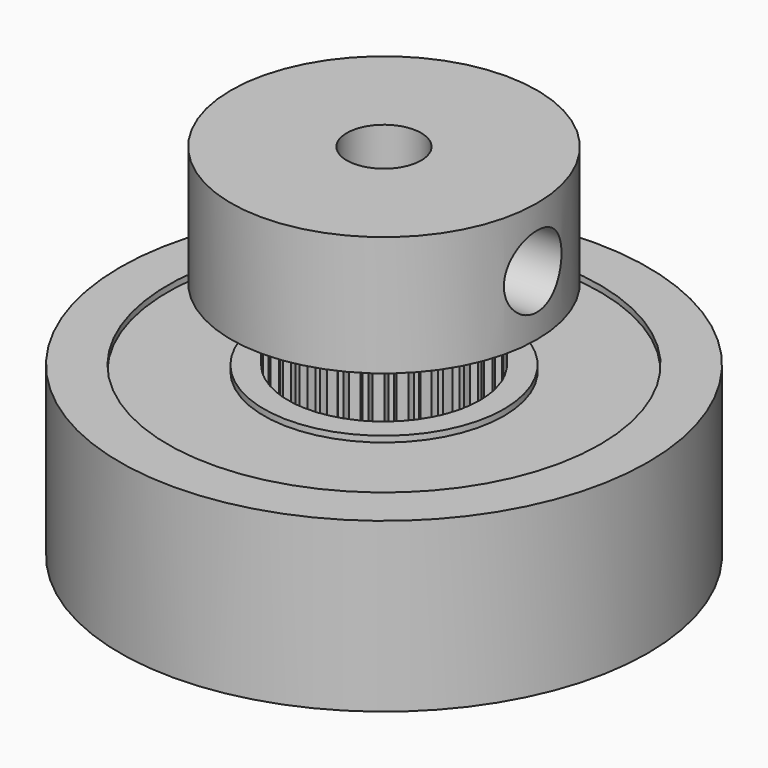
from build123d import *

# Parameters (mm, degrees)
CYLINDER004_R           = 1.55
CYLINDER004_DEPTH       = 4
CYLINDER002_R           = 3
CYLINDER002_DEPTH       = 0.5
CYLINDER003_R           = 4
CYLINDER003_DEPTH       = 0.25
CYLINDER001_R           = 5.75
CYLINDER001_DEPTH       = 1
CYLINDER005_R           = 3
CYLINDER005_DEPTH       = 0.5
CYLINDER006_R           = 4
CYLINDER006_DEPTH       = 0.25
CYLINDER_R              = 5
CYLINDER_DEPTH          = 4
CYLINDER009_R           = 1.55
CYLINDER009_DEPTH       = 15
CYLINDER010_R           = 1.5
CYLINDER010_DEPTH       = 7
CYLINDER010_PITCH_ANGLE = 90
CYLINDER008_R           = 6.375
CYLINDER008_DEPTH       = 5
PAD_DEPTH               = 9.5
CYLINDER007_R           = 3.75
CYLINDER007_DEPTH       = 15
CYLINDER013_R           = 5
CYLINDER013_DEPTH       = 0.25
CYLINDER014_R           = 9
CYLINDER014_DEPTH       = 0.25
CYLINDER015_R           = 5
CYLINDER015_DEPTH       = 0.25
CYLINDER016_R           = 9
CYLINDER016_DEPTH       = 0.25
CYLINDER011_R           = 4
CYLINDER011_DEPTH       = 7
CYLINDER012_R           = 11
CYLINDER012_DEPTH       = 7
CYLINDER018_R           = 1.6
CYLINDER018_DEPTH       = 0.6
CYLINDER017_R           = 3.4
CYLINDER017_DEPTH       = 0.6


with BuildPart() as m3:
    # Cylinder004 → Cylinder004 (new body)
    with BuildSketch(Plane.XY):
        Circle(CYLINDER004_R)
    extrude(amount=CYLINDER004_DEPTH)


with BuildPart() as cylinder002:
    # Cylinder002 → Cylinder002 (new body)
    with BuildSketch(Plane.XY):
        Circle(CYLINDER002_R)
    extrude(amount=CYLINDER002_DEPTH)


with BuildPart() as groove:
    # Cylinder003 → Cylinder003 (new body)
    with BuildSketch(Plane.XY):
        Circle(CYLINDER003_R)
    extrude(amount=CYLINDER003_DEPTH)

    # Cut: cut Cylinder002
    add(cylinder002.part, mode=Mode.SUBTRACT)


with BuildPart() as obj1:
    # Cylinder001 → Cylinder001 (new body)
    with BuildSketch(Plane.XY):
        Circle(CYLINDER001_R)
    extrude(amount=CYLINDER001_DEPTH)


with BuildPart() as cylinder005:
    # Cylinder005 → Cylinder005 (new body)
    with BuildSketch(Plane.XY):
        Circle(CYLINDER005_R)
    extrude(amount=CYLINDER005_DEPTH)


with BuildPart() as groove001:
    # Cylinder006 → Cylinder006 (new body)
    with BuildSketch(Plane.XY):
        Circle(CYLINDER006_R)
    extrude(amount=CYLINDER006_DEPTH)

    # Cut001: cut Cylinder005
    add(cylinder005.part, mode=Mode.SUBTRACT)


with BuildPart() as groove001_1:
    # Cut001 placement: moved
    add(groove001.part.moved(Location((0, 0, 3.75))))


with BuildPart() as f623zz:
    # Cylinder → Cylinder (new body)
    with BuildSketch(Plane.XY):
        Circle(CYLINDER_R)
    extrude(amount=CYLINDER_DEPTH)

    # Cut002: cut Groove001
    add(groove001_1.part, mode=Mode.SUBTRACT)

    # Fusion: union obj1
    add(obj1.part)

    # Cut003: cut Groove
    add(groove.part, mode=Mode.SUBTRACT)

    # Cut004: cut M3
    add(m3.part, mode=Mode.SUBTRACT)


with BuildPart() as cylinder009:
    # Cylinder009 → Cylinder009 (new body)
    with BuildSketch(Plane.XY):
        Circle(CYLINDER009_R)
    extrude(amount=CYLINDER009_DEPTH)


with BuildPart() as cylinder010:
    # Cylinder010 → Cylinder010 (new body)
    with BuildSketch(Plane.XY):
        Circle(CYLINDER010_R)
    extrude(amount=CYLINDER010_DEPTH)


with BuildPart() as cylinder010_1:
    # Cylinder010 pitch: moved
    add(cylinder010.part.rotate(Axis((0, 0, 0), (0, 1, 0)), CYLINDER010_PITCH_ANGLE))


with BuildPart() as cylinder010_2:
    # Cylinder010 placement: moved
    add(cylinder010_1.part.moved(Location((0, 0, 12.5))))


with BuildPart() as conetop:
    # Cone → Cone (revolve)
    with BuildSketch(Plane.XZ):
        Polygon((0, 0), (2.5, 0), (1.55, 5), (0, 5), align=None)
    revolve(axis=Axis((0, 0, 0), (0, 0, 1)))


with BuildPart() as cylinder007:
    # Cylinder008 → Cylinder008 (new body)
    with BuildSketch(Plane.XY.offset(10)):
        Circle(CYLINDER008_R)
    extrude(amount=CYLINDER008_DEPTH)


with BuildPart() as pad:
    # InvoluteGear → Pad (new body)
    with BuildSketch(Plane.XY):
        with BuildLine():
            Line((3.492085, -0.235247), (3.521085, -0.23701))
            add(Edge.make_bspline(
                [(3.521085, -0.23701), (3.534891, -0.237191), (3.576508, -0.236243), (3.645773, -0.221926)],
                knots=[0, 0, 0, 0, 1, 1, 1, 1], degree=3))
            add(Edge.make_bspline(
                [(3.645773, -0.221926), (3.728823, -0.20457), (3.849014, -0.168148), (3.999193, -0.092079)],
                knots=[0, 0, 0, 0, 1, 1, 1, 1], degree=3))
            ThreePointArc((3.999193, -0.092079), (4.000253, 0), (3.999193, 0.092079))
            add(Edge.make_bspline(
                [(3.999193, 0.092079), (3.849014, 0.168148), (3.728823, 0.20457), (3.645773, 0.221926)],
                knots=[0, 0, 0, 0, 1, 1, 1, 1], degree=3))
            add(Edge.make_bspline(
                [(3.645773, 0.221926), (3.576508, 0.236243), (3.534891, 0.237191), (3.521085, 0.23701)],
                knots=[0, 0, 0, 0, 1, 1, 1, 1], degree=3))
            Line((3.521085, 0.23701), (3.492085, 0.235247))
            ThreePointArc((3.492085, 0.235247), (3.442975, 0.267159), (3.422387, 0.321988))
            ThreePointArc((3.422387, 0.321988), (3.418669, 0.359317), (3.414544, 0.396603))
            ThreePointArc((3.414544, 0.396603), (3.423283, 0.454514), (3.464685, 0.495939))
            Line((3.464685, 0.495939), (3.493418, 0.500244))
            add(Edge.make_bspline(
                [(3.493418, 0.500244), (3.50696, 0.502938), (3.547471, 0.512517), (3.612245, 0.540922)],
                knots=[0, 0, 0, 0, 1, 1, 1, 1], degree=3))
            add(Edge.make_bspline(
                [(3.612245, 0.540922), (3.689872, 0.575167), (3.799864, 0.635782), (3.930945, 0.741412)],
                knots=[0, 0, 0, 0, 1, 1, 1, 1], degree=3))
            ThreePointArc((3.930945, 0.741412), (3.912838, 0.831699), (3.892656, 0.921546))
            add(Edge.make_bspline(
                [(3.892656, 0.921546), (3.729944, 0.964728), (3.604807, 0.975365), (3.519963, 0.975076)],
                knots=[0, 0, 0, 0, 1, 1, 1, 1], degree=3))
            add(Edge.make_bspline(
                [(3.519963, 0.975076), (3.449235, 0.974679), (3.40833, 0.966953), (3.394864, 0.963905)],
                knots=[0, 0, 0, 0, 1, 1, 1, 1], degree=3))
            Line((3.394864, 0.963905), (3.366864, 0.956152))
            ThreePointArc((3.366864, 0.956152), (3.312193, 0.977156), (3.280654, 1.026506))
            ThreePointArc((3.280654, 1.026506), (3.269257, 1.062246), (3.25747, 1.09786))
            ThreePointArc((3.25747, 1.09786), (3.253978, 1.156322), (3.285862, 1.20545))
            Line((3.285862, 1.20545), (3.313071, 1.215635))
            add(Edge.make_bspline(
                [(3.313071, 1.215635), (3.325758, 1.221085), (3.363392, 1.238878), (3.420845, 1.280129)],
                knots=[0, 0, 0, 0, 1, 1, 1, 1], degree=3))
            add(Edge.make_bspline(
                [(3.420845, 1.280129), (3.489656, 1.329765), (3.584641, 1.411924), (3.690896, 1.5425)],
                knots=[0, 0, 0, 0, 1, 1, 1, 1], degree=3))
            ThreePointArc((3.690896, 1.5425), (3.654413, 1.627049), (3.615992, 1.710737))
            add(Edge.make_bspline(
                [(3.615992, 1.710737), (3.447858, 1.719146), (3.323244, 1.703533), (3.240313, 1.685609)],
                knots=[0, 0, 0, 0, 1, 1, 1, 1], degree=3))
            add(Edge.make_bspline(
                [(3.240313, 1.685609), (3.171214, 1.670516), (3.13281, 1.654454), (3.12027, 1.648673)],
                knots=[0, 0, 0, 0, 1, 1, 1, 1], degree=3))
            Line((3.12027, 1.648673), (3.094495, 1.635268))
            ThreePointArc((3.094495, 1.635268), (3.036651, 1.644446), (2.995541, 1.686161))
            ThreePointArc((2.995541, 1.686161), (2.976962, 1.71875), (2.958029, 1.751135))
            ThreePointArc((2.958029, 1.751135), (2.942458, 1.807594), (2.963431, 1.862277))
            Line((2.963431, 1.862277), (2.987928, 1.877897))
            add(Edge.make_bspline(
                [(2.987928, 1.877897), (2.999204, 1.885866), (3.032316, 1.911094), (3.079937, 1.963389)],
                knots=[0, 0, 0, 0, 1, 1, 1, 1], degree=3))
            add(Edge.make_bspline(
                [(3.079937, 1.963389), (3.136924, 2.026247), (3.212753, 2.126359), (3.289538, 2.276173)],
                knots=[0, 0, 0, 0, 1, 1, 1, 1], degree=3))
            ThreePointArc((3.289538, 2.276173), (3.236272, 2.35129), (3.181292, 2.42516))
            add(Edge.make_bspline(
                [(3.181292, 2.42516), (3.015083, 2.398428), (2.896438, 2.357248), (2.819047, 2.322474)],
                knots=[0, 0, 0, 0, 1, 1, 1, 1], degree=3))
            add(Edge.make_bspline(
                [(2.819047, 2.322474), (2.754595, 2.293344), (2.72037, 2.269648), (2.709307, 2.261386)],
                knots=[0, 0, 0, 0, 1, 1, 1, 1], degree=3))
            Line((2.709307, 2.261386), (2.686881, 2.242915))
            ThreePointArc((2.686881, 2.242915), (2.628394, 2.239866), (2.579509, 2.272122))
            ThreePointArc((2.579509, 2.272122), (2.55456, 2.300136), (2.529307, 2.327877))
            ThreePointArc((2.529307, 2.327877), (2.502338, 2.379865), (2.511484, 2.437714))
            Line((2.511484, 2.437714), (2.532198, 2.458086))
            add(Edge.make_bspline(
                [(2.532198, 2.458086), (2.541571, 2.468224), (2.568714, 2.499786), (2.604421, 2.560839)],
                knots=[0, 0, 0, 0, 1, 1, 1, 1], degree=3))
            add(Edge.make_bspline(
                [(2.604421, 2.560839), (2.647095, 2.634172), (2.700451, 2.747862), (2.74441, 2.910366)],
                knots=[0, 0, 0, 0, 1, 1, 1, 1], degree=3))
            ThreePointArc((2.74441, 2.910366), (2.676692, 2.972767), (2.607554, 3.033592))
            add(Edge.make_bspline(
                [(2.607554, 3.033592), (2.450535, 2.972888), (2.343045, 2.90794), (2.274574, 2.857835)],
                knots=[0, 0, 0, 0, 1, 1, 1, 1], degree=3))
            add(Edge.make_bspline(
                [(2.274574, 2.857835), (2.217588, 2.815941), (2.189037, 2.785647), (2.179933, 2.775266)],
                knots=[0, 0, 0, 0, 1, 1, 1, 1], degree=3))
            Line((2.179933, 2.775266), (2.161838, 2.752536))
            ThreePointArc((2.161838, 2.752536), (2.105262, 2.737393), (2.05074, 2.758781))
            ThreePointArc((2.05074, 2.758781), (2.020512, 2.780996), (1.990043, 2.80288))
            ThreePointArc((1.990043, 2.80288), (1.952854, 2.848125), (1.949773, 2.906611))
            Line((1.949773, 2.906611), (1.965799, 2.930844))
            add(Edge.make_bspline(
                [(1.965799, 2.930844), (1.972859, 2.94271), (1.992847, 2.979225), (2.01508, 3.046368)],
                knots=[0, 0, 0, 0, 1, 1, 1, 1], degree=3))
            add(Edge.make_bspline(
                [(2.01508, 3.046368), (2.041574, 3.126971), (2.070127, 3.24927), (2.079339, 3.417363)],
                knots=[0, 0, 0, 0, 1, 1, 1, 1], degree=3))
            ThreePointArc((2.079339, 3.417363), (2.000126, 3.46432), (1.919853, 3.509442))
            add(Edge.make_bspline(
                [(1.919853, 3.509442), (1.778887, 3.417418), (1.687249, 3.33154), (1.630692, 3.268295)],
                knots=[0, 0, 0, 0, 1, 1, 1, 1], degree=3))
            add(Edge.make_bspline(
                [(1.630692, 3.268295), (1.583661, 3.215469), (1.562032, 3.179901), (1.555286, 3.167854)],
                knots=[0, 0, 0, 0, 1, 1, 1, 1], degree=3))
            Line((1.555286, 3.167854), (1.542312, 3.141858))
            ThreePointArc((1.542312, 3.141858), (1.490121, 3.115283), (1.432344, 3.124868))
            ThreePointArc((1.432344, 3.124868), (1.398157, 3.140313), (1.363804, 3.155383))
            ThreePointArc((1.363804, 3.155383), (1.318021, 3.191907), (1.302847, 3.248475))
            Line((1.302847, 3.248475), (1.313485, 3.275511))
            add(Edge.make_bspline(
                [(1.313485, 3.275511), (1.317923, 3.288585), (1.329883, 3.328458), (1.33767, 3.398757)],
                knots=[0, 0, 0, 0, 1, 1, 1, 1], degree=3))
            add(Edge.make_bspline(
                [(1.33767, 3.398757), (1.346827, 3.483106), (1.349329, 3.60867), (1.323391, 3.775004)],
                knots=[0, 0, 0, 0, 1, 1, 1, 1], degree=3))
            ThreePointArc((1.323391, 3.775004), (1.236146, 3.804466), (1.148246, 3.831912))
            add(Edge.make_bspline(
                [(1.148246, 3.831912), (1.029493, 3.712591), (0.957712, 3.609537), (0.915541, 3.535915)],
                knots=[0, 0, 0, 0, 1, 1, 1, 1], degree=3))
            add(Edge.make_bspline(
                [(0.915541, 3.535915), (0.880521, 3.474465), (0.86676, 3.435177), (0.862666, 3.421991)],
                knots=[0, 0, 0, 0, 1, 1, 1, 1], degree=3))
            Line((0.862666, 3.421991), (0.85538, 3.393866))
            ThreePointArc((0.85538, 3.393866), (0.809855, 3.357021), (0.751347, 3.354383))
            ThreePointArc((0.751347, 3.354383), (0.714696, 3.362382), (0.677961, 3.369982))
            ThreePointArc((0.677961, 3.369982), (0.625584, 3.396189), (0.598981, 3.448365))
            Line((0.598981, 3.448365), (0.603765, 3.477022))
            add(Edge.make_bspline(
                [(0.603765, 3.477022), (0.605388, 3.490733), (0.608796, 3.532222), (0.601798, 3.602603)],
                knots=[0, 0, 0, 0, 1, 1, 1, 1], degree=3))
            add(Edge.make_bspline(
                [(0.601798, 3.602603), (0.593217, 3.687013), (0.569558, 3.810353), (0.509604, 3.96766)],
                knots=[0, 0, 0, 0, 1, 1, 1, 1], degree=3))
            ThreePointArc((0.509604, 3.96766), (0.41814, 3.978339), (0.326455, 3.98691))
            add(Edge.make_bspline(
                [(0.326455, 3.98691), (0.235105, 3.845505), (0.186319, 3.72978), (0.160376, 3.648998)],
                knots=[0, 0, 0, 0, 1, 1, 1, 1], degree=3))
            add(Edge.make_bspline(
                [(0.160376, 3.648998), (0.138898, 3.58161), (0.133606, 3.54032), (0.132342, 3.52657)],
                knots=[0, 0, 0, 0, 1, 1, 1, 1], degree=3))
            Line((0.132342, 3.52657), (0.131064, 3.497545))
            ThreePointArc((0.131064, 3.497545), (0.094194, 3.45204), (0.037513, 3.437295))
            ThreePointArc((0.037513, 3.437295), (0, 3.4375), (-0.037513, 3.437295))
            ThreePointArc((-0.037513, 3.437295), (-0.094194, 3.45204), (-0.131064, 3.497545))
            Line((-0.131064, 3.497545), (-0.132342, 3.52657))
            add(Edge.make_bspline(
                [(-0.132342, 3.52657), (-0.133606, 3.54032), (-0.138898, 3.58161), (-0.160376, 3.648998)],
                knots=[0, 0, 0, 0, 1, 1, 1, 1], degree=3))
            add(Edge.make_bspline(
                [(-0.160376, 3.648998), (-0.186319, 3.72978), (-0.235105, 3.845505), (-0.326455, 3.98691)],
                knots=[0, 0, 0, 0, 1, 1, 1, 1], degree=3))
            ThreePointArc((-0.326455, 3.98691), (-0.41814, 3.978339), (-0.509604, 3.96766))
            add(Edge.make_bspline(
                [(-0.509604, 3.96766), (-0.569558, 3.810353), (-0.593217, 3.687013), (-0.601798, 3.602603)],
                knots=[0, 0, 0, 0, 1, 1, 1, 1], degree=3))
            add(Edge.make_bspline(
                [(-0.601798, 3.602603), (-0.608796, 3.532222), (-0.605388, 3.490733), (-0.603765, 3.477022)],
                knots=[0, 0, 0, 0, 1, 1, 1, 1], degree=3))
            Line((-0.603765, 3.477022), (-0.598981, 3.448365))
            ThreePointArc((-0.598981, 3.448365), (-0.625584, 3.396189), (-0.677961, 3.369982))
            ThreePointArc((-0.677961, 3.369982), (-0.714696, 3.362382), (-0.751347, 3.354383))
            ThreePointArc((-0.751347, 3.354383), (-0.809855, 3.357021), (-0.85538, 3.393866))
            Line((-0.85538, 3.393866), (-0.862666, 3.421991))
            add(Edge.make_bspline(
                [(-0.862666, 3.421991), (-0.86676, 3.435177), (-0.880521, 3.474465), (-0.915541, 3.535915)],
                knots=[0, 0, 0, 0, 1, 1, 1, 1], degree=3))
            add(Edge.make_bspline(
                [(-0.915541, 3.535915), (-0.957712, 3.609537), (-1.029493, 3.712591), (-1.148246, 3.831912)],
                knots=[0, 0, 0, 0, 1, 1, 1, 1], degree=3))
            ThreePointArc((-1.148246, 3.831912), (-1.236146, 3.804466), (-1.323391, 3.775004))
            add(Edge.make_bspline(
                [(-1.323391, 3.775004), (-1.349329, 3.60867), (-1.346827, 3.483106), (-1.33767, 3.398757)],
                knots=[0, 0, 0, 0, 1, 1, 1, 1], degree=3))
            add(Edge.make_bspline(
                [(-1.33767, 3.398757), (-1.329883, 3.328458), (-1.317923, 3.288585), (-1.313485, 3.275511)],
                knots=[0, 0, 0, 0, 1, 1, 1, 1], degree=3))
            Line((-1.313485, 3.275511), (-1.302847, 3.248475))
            ThreePointArc((-1.302847, 3.248475), (-1.318021, 3.191907), (-1.363804, 3.155383))
            ThreePointArc((-1.363804, 3.155383), (-1.398157, 3.140313), (-1.432344, 3.124868))
            ThreePointArc((-1.432344, 3.124868), (-1.490121, 3.115283), (-1.542312, 3.141858))
            Line((-1.542312, 3.141858), (-1.555286, 3.167854))
            add(Edge.make_bspline(
                [(-1.555286, 3.167854), (-1.562032, 3.179901), (-1.583661, 3.215469), (-1.630692, 3.268295)],
                knots=[0, 0, 0, 0, 1, 1, 1, 1], degree=3))
            add(Edge.make_bspline(
                [(-1.630692, 3.268295), (-1.687249, 3.33154), (-1.778887, 3.417418), (-1.919853, 3.509442)],
                knots=[0, 0, 0, 0, 1, 1, 1, 1], degree=3))
            ThreePointArc((-1.919853, 3.509442), (-2.000126, 3.46432), (-2.079339, 3.417363))
            add(Edge.make_bspline(
                [(-2.079339, 3.417363), (-2.070127, 3.24927), (-2.041574, 3.126971), (-2.01508, 3.046368)],
                knots=[0, 0, 0, 0, 1, 1, 1, 1], degree=3))
            add(Edge.make_bspline(
                [(-2.01508, 3.046368), (-1.992847, 2.979225), (-1.972859, 2.94271), (-1.965799, 2.930844)],
                knots=[0, 0, 0, 0, 1, 1, 1, 1], degree=3))
            Line((-1.965799, 2.930844), (-1.949773, 2.906611))
            ThreePointArc((-1.949773, 2.906611), (-1.952854, 2.848125), (-1.990043, 2.80288))
            ThreePointArc((-1.990043, 2.80288), (-2.020512, 2.780996), (-2.05074, 2.758781))
            ThreePointArc((-2.05074, 2.758781), (-2.105262, 2.737393), (-2.161838, 2.752536))
            Line((-2.161838, 2.752536), (-2.179933, 2.775266))
            add(Edge.make_bspline(
                [(-2.179933, 2.775266), (-2.189037, 2.785647), (-2.217588, 2.815941), (-2.274574, 2.857835)],
                knots=[0, 0, 0, 0, 1, 1, 1, 1], degree=3))
            add(Edge.make_bspline(
                [(-2.274574, 2.857835), (-2.343045, 2.90794), (-2.450535, 2.972888), (-2.607554, 3.033592)],
                knots=[0, 0, 0, 0, 1, 1, 1, 1], degree=3))
            ThreePointArc((-2.607554, 3.033592), (-2.676692, 2.972767), (-2.74441, 2.910366))
            add(Edge.make_bspline(
                [(-2.74441, 2.910366), (-2.700451, 2.747862), (-2.647095, 2.634172), (-2.604421, 2.560839)],
                knots=[0, 0, 0, 0, 1, 1, 1, 1], degree=3))
            add(Edge.make_bspline(
                [(-2.604421, 2.560839), (-2.568714, 2.499786), (-2.541571, 2.468224), (-2.532198, 2.458086)],
                knots=[0, 0, 0, 0, 1, 1, 1, 1], degree=3))
            Line((-2.532198, 2.458086), (-2.511484, 2.437714))
            ThreePointArc((-2.511484, 2.437714), (-2.502338, 2.379865), (-2.529307, 2.327877))
            ThreePointArc((-2.529307, 2.327877), (-2.55456, 2.300136), (-2.579509, 2.272122))
            ThreePointArc((-2.579509, 2.272122), (-2.628394, 2.239866), (-2.686881, 2.242915))
            Line((-2.686881, 2.242915), (-2.709307, 2.261386))
            add(Edge.make_bspline(
                [(-2.709307, 2.261386), (-2.72037, 2.269648), (-2.754595, 2.293344), (-2.819047, 2.322474)],
                knots=[0, 0, 0, 0, 1, 1, 1, 1], degree=3))
            add(Edge.make_bspline(
                [(-2.819047, 2.322474), (-2.896438, 2.357248), (-3.015083, 2.398428), (-3.181292, 2.42516)],
                knots=[0, 0, 0, 0, 1, 1, 1, 1], degree=3))
            ThreePointArc((-3.181292, 2.42516), (-3.236272, 2.35129), (-3.289538, 2.276173))
            add(Edge.make_bspline(
                [(-3.289538, 2.276173), (-3.212753, 2.126359), (-3.136924, 2.026247), (-3.079937, 1.963389)],
                knots=[0, 0, 0, 0, 1, 1, 1, 1], degree=3))
            add(Edge.make_bspline(
                [(-3.079937, 1.963389), (-3.032316, 1.911094), (-2.999204, 1.885866), (-2.987928, 1.877897)],
                knots=[0, 0, 0, 0, 1, 1, 1, 1], degree=3))
            Line((-2.987928, 1.877897), (-2.963431, 1.862277))
            ThreePointArc((-2.963431, 1.862277), (-2.942458, 1.807594), (-2.958029, 1.751135))
            ThreePointArc((-2.958029, 1.751135), (-2.976962, 1.71875), (-2.995541, 1.686161))
            ThreePointArc((-2.995541, 1.686161), (-3.036651, 1.644446), (-3.094495, 1.635268))
            Line((-3.094495, 1.635268), (-3.12027, 1.648673))
            add(Edge.make_bspline(
                [(-3.12027, 1.648673), (-3.13281, 1.654454), (-3.171214, 1.670516), (-3.240313, 1.685609)],
                knots=[0, 0, 0, 0, 1, 1, 1, 1], degree=3))
            add(Edge.make_bspline(
                [(-3.240313, 1.685609), (-3.323244, 1.703533), (-3.447858, 1.719146), (-3.615992, 1.710737)],
                knots=[0, 0, 0, 0, 1, 1, 1, 1], degree=3))
            ThreePointArc((-3.615992, 1.710737), (-3.654413, 1.627049), (-3.690896, 1.5425))
            add(Edge.make_bspline(
                [(-3.690896, 1.5425), (-3.584641, 1.411924), (-3.489656, 1.329765), (-3.420845, 1.280129)],
                knots=[0, 0, 0, 0, 1, 1, 1, 1], degree=3))
            add(Edge.make_bspline(
                [(-3.420845, 1.280129), (-3.363392, 1.238878), (-3.325758, 1.221085), (-3.313071, 1.215635)],
                knots=[0, 0, 0, 0, 1, 1, 1, 1], degree=3))
            Line((-3.313071, 1.215635), (-3.285862, 1.20545))
            ThreePointArc((-3.285862, 1.20545), (-3.253978, 1.156322), (-3.25747, 1.09786))
            ThreePointArc((-3.25747, 1.09786), (-3.269257, 1.062246), (-3.280654, 1.026506))
            ThreePointArc((-3.280654, 1.026506), (-3.312193, 0.977156), (-3.366864, 0.956152))
            Line((-3.366864, 0.956152), (-3.394864, 0.963905))
            add(Edge.make_bspline(
                [(-3.394864, 0.963905), (-3.40833, 0.966953), (-3.449235, 0.974679), (-3.519963, 0.975076)],
                knots=[0, 0, 0, 0, 1, 1, 1, 1], degree=3))
            add(Edge.make_bspline(
                [(-3.519963, 0.975076), (-3.604807, 0.975365), (-3.729944, 0.964728), (-3.892656, 0.921546)],
                knots=[0, 0, 0, 0, 1, 1, 1, 1], degree=3))
            ThreePointArc((-3.892656, 0.921546), (-3.912838, 0.831699), (-3.930945, 0.741412))
            add(Edge.make_bspline(
                [(-3.930945, 0.741412), (-3.799864, 0.635782), (-3.689872, 0.575167), (-3.612245, 0.540922)],
                knots=[0, 0, 0, 0, 1, 1, 1, 1], degree=3))
            add(Edge.make_bspline(
                [(-3.612245, 0.540922), (-3.547471, 0.512517), (-3.50696, 0.502938), (-3.493418, 0.500244)],
                knots=[0, 0, 0, 0, 1, 1, 1, 1], degree=3))
            Line((-3.493418, 0.500244), (-3.464685, 0.495939))
            ThreePointArc((-3.464685, 0.495939), (-3.423283, 0.454514), (-3.414544, 0.396603))
            ThreePointArc((-3.414544, 0.396603), (-3.418669, 0.359317), (-3.422387, 0.321988))
            ThreePointArc((-3.422387, 0.321988), (-3.442975, 0.267159), (-3.492085, 0.235247))
            Line((-3.492085, 0.235247), (-3.521085, 0.23701))
            add(Edge.make_bspline(
                [(-3.521085, 0.23701), (-3.534891, 0.237191), (-3.576508, 0.236243), (-3.645773, 0.221926)],
                knots=[0, 0, 0, 0, 1, 1, 1, 1], degree=3))
            add(Edge.make_bspline(
                [(-3.645773, 0.221926), (-3.728823, 0.20457), (-3.849014, 0.168148), (-3.999193, 0.092079)],
                knots=[0, 0, 0, 0, 1, 1, 1, 1], degree=3))
            ThreePointArc((-3.999193, 0.092079), (-4.000253, 0), (-3.999193, -0.092079))
            add(Edge.make_bspline(
                [(-3.999193, -0.092079), (-3.849014, -0.168148), (-3.728823, -0.20457), (-3.645773, -0.221926)],
                knots=[0, 0, 0, 0, 1, 1, 1, 1], degree=3))
            add(Edge.make_bspline(
                [(-3.645773, -0.221926), (-3.576508, -0.236243), (-3.534891, -0.237191), (-3.521085, -0.23701)],
                knots=[0, 0, 0, 0, 1, 1, 1, 1], degree=3))
            Line((-3.521085, -0.23701), (-3.492085, -0.235247))
            ThreePointArc((-3.492085, -0.235247), (-3.442975, -0.267159), (-3.422387, -0.321988))
            ThreePointArc((-3.422387, -0.321988), (-3.418669, -0.359317), (-3.414544, -0.396603))
            ThreePointArc((-3.414544, -0.396603), (-3.423283, -0.454514), (-3.464685, -0.495939))
            Line((-3.464685, -0.495939), (-3.493418, -0.500244))
            add(Edge.make_bspline(
                [(-3.493418, -0.500244), (-3.50696, -0.502938), (-3.547471, -0.512517), (-3.612245, -0.540922)],
                knots=[0, 0, 0, 0, 1, 1, 1, 1], degree=3))
            add(Edge.make_bspline(
                [(-3.612245, -0.540922), (-3.689872, -0.575167), (-3.799864, -0.635782), (-3.930945, -0.741412)],
                knots=[0, 0, 0, 0, 1, 1, 1, 1], degree=3))
            ThreePointArc((-3.930945, -0.741412), (-3.912838, -0.831699), (-3.892656, -0.921546))
            add(Edge.make_bspline(
                [(-3.892656, -0.921546), (-3.729944, -0.964728), (-3.604807, -0.975365), (-3.519963, -0.975076)],
                knots=[0, 0, 0, 0, 1, 1, 1, 1], degree=3))
            add(Edge.make_bspline(
                [(-3.519963, -0.975076), (-3.449235, -0.974679), (-3.40833, -0.966953), (-3.394864, -0.963905)],
                knots=[0, 0, 0, 0, 1, 1, 1, 1], degree=3))
            Line((-3.394864, -0.963905), (-3.366864, -0.956152))
            ThreePointArc((-3.366864, -0.956152), (-3.312193, -0.977156), (-3.280654, -1.026506))
            ThreePointArc((-3.280654, -1.026506), (-3.269257, -1.062246), (-3.25747, -1.09786))
            ThreePointArc((-3.25747, -1.09786), (-3.253978, -1.156322), (-3.285862, -1.20545))
            Line((-3.285862, -1.20545), (-3.313071, -1.215635))
            add(Edge.make_bspline(
                [(-3.313071, -1.215635), (-3.325758, -1.221085), (-3.363392, -1.238878), (-3.420845, -1.280129)],
                knots=[0, 0, 0, 0, 1, 1, 1, 1], degree=3))
            add(Edge.make_bspline(
                [(-3.420845, -1.280129), (-3.489656, -1.329765), (-3.584641, -1.411924), (-3.690896, -1.5425)],
                knots=[0, 0, 0, 0, 1, 1, 1, 1], degree=3))
            ThreePointArc((-3.690896, -1.5425), (-3.654413, -1.627049), (-3.615992, -1.710737))
            add(Edge.make_bspline(
                [(-3.615992, -1.710737), (-3.447858, -1.719146), (-3.323244, -1.703533), (-3.240313, -1.685609)],
                knots=[0, 0, 0, 0, 1, 1, 1, 1], degree=3))
            add(Edge.make_bspline(
                [(-3.240313, -1.685609), (-3.171214, -1.670516), (-3.13281, -1.654454), (-3.12027, -1.648673)],
                knots=[0, 0, 0, 0, 1, 1, 1, 1], degree=3))
            Line((-3.12027, -1.648673), (-3.094495, -1.635268))
            ThreePointArc((-3.094495, -1.635268), (-3.036651, -1.644446), (-2.995541, -1.686161))
            ThreePointArc((-2.995541, -1.686161), (-2.976962, -1.71875), (-2.958029, -1.751135))
            ThreePointArc((-2.958029, -1.751135), (-2.942458, -1.807594), (-2.963431, -1.862277))
            Line((-2.963431, -1.862277), (-2.987928, -1.877897))
            add(Edge.make_bspline(
                [(-2.987928, -1.877897), (-2.999204, -1.885866), (-3.032316, -1.911094), (-3.079937, -1.963389)],
                knots=[0, 0, 0, 0, 1, 1, 1, 1], degree=3))
            add(Edge.make_bspline(
                [(-3.079937, -1.963389), (-3.136924, -2.026247), (-3.212753, -2.126359), (-3.289538, -2.276173)],
                knots=[0, 0, 0, 0, 1, 1, 1, 1], degree=3))
            ThreePointArc((-3.289538, -2.276173), (-3.236272, -2.35129), (-3.181292, -2.42516))
            add(Edge.make_bspline(
                [(-3.181292, -2.42516), (-3.015083, -2.398428), (-2.896438, -2.357248), (-2.819047, -2.322474)],
                knots=[0, 0, 0, 0, 1, 1, 1, 1], degree=3))
            add(Edge.make_bspline(
                [(-2.819047, -2.322474), (-2.754595, -2.293344), (-2.72037, -2.269648), (-2.709307, -2.261386)],
                knots=[0, 0, 0, 0, 1, 1, 1, 1], degree=3))
            Line((-2.709307, -2.261386), (-2.686881, -2.242915))
            ThreePointArc((-2.686881, -2.242915), (-2.628394, -2.239866), (-2.579509, -2.272122))
            ThreePointArc((-2.579509, -2.272122), (-2.55456, -2.300136), (-2.529307, -2.327877))
            ThreePointArc((-2.529307, -2.327877), (-2.502338, -2.379865), (-2.511484, -2.437714))
            Line((-2.511484, -2.437714), (-2.532198, -2.458086))
            add(Edge.make_bspline(
                [(-2.532198, -2.458086), (-2.541571, -2.468224), (-2.568714, -2.499786), (-2.604421, -2.560839)],
                knots=[0, 0, 0, 0, 1, 1, 1, 1], degree=3))
            add(Edge.make_bspline(
                [(-2.604421, -2.560839), (-2.647095, -2.634172), (-2.700451, -2.747862), (-2.74441, -2.910366)],
                knots=[0, 0, 0, 0, 1, 1, 1, 1], degree=3))
            ThreePointArc((-2.74441, -2.910366), (-2.676692, -2.972767), (-2.607554, -3.033592))
            add(Edge.make_bspline(
                [(-2.607554, -3.033592), (-2.450535, -2.972888), (-2.343045, -2.90794), (-2.274574, -2.857835)],
                knots=[0, 0, 0, 0, 1, 1, 1, 1], degree=3))
            add(Edge.make_bspline(
                [(-2.274574, -2.857835), (-2.217588, -2.815941), (-2.189037, -2.785647), (-2.179933, -2.775266)],
                knots=[0, 0, 0, 0, 1, 1, 1, 1], degree=3))
            Line((-2.179933, -2.775266), (-2.161838, -2.752536))
            ThreePointArc((-2.161838, -2.752536), (-2.105262, -2.737393), (-2.05074, -2.758781))
            ThreePointArc((-2.05074, -2.758781), (-2.020512, -2.780996), (-1.990043, -2.80288))
            ThreePointArc((-1.990043, -2.80288), (-1.952854, -2.848125), (-1.949773, -2.906611))
            Line((-1.949773, -2.906611), (-1.965799, -2.930844))
            add(Edge.make_bspline(
                [(-1.965799, -2.930844), (-1.972859, -2.94271), (-1.992847, -2.979225), (-2.01508, -3.046368)],
                knots=[0, 0, 0, 0, 1, 1, 1, 1], degree=3))
            add(Edge.make_bspline(
                [(-2.01508, -3.046368), (-2.041574, -3.126971), (-2.070127, -3.24927), (-2.079339, -3.417363)],
                knots=[0, 0, 0, 0, 1, 1, 1, 1], degree=3))
            ThreePointArc((-2.079339, -3.417363), (-2.000126, -3.46432), (-1.919853, -3.509442))
            add(Edge.make_bspline(
                [(-1.919853, -3.509442), (-1.778887, -3.417418), (-1.687249, -3.33154), (-1.630692, -3.268295)],
                knots=[0, 0, 0, 0, 1, 1, 1, 1], degree=3))
            add(Edge.make_bspline(
                [(-1.630692, -3.268295), (-1.583661, -3.215469), (-1.562032, -3.179901), (-1.555286, -3.167854)],
                knots=[0, 0, 0, 0, 1, 1, 1, 1], degree=3))
            Line((-1.555286, -3.167854), (-1.542312, -3.141858))
            ThreePointArc((-1.542312, -3.141858), (-1.490121, -3.115283), (-1.432344, -3.124868))
            ThreePointArc((-1.432344, -3.124868), (-1.398157, -3.140313), (-1.363804, -3.155383))
            ThreePointArc((-1.363804, -3.155383), (-1.318021, -3.191907), (-1.302847, -3.248475))
            Line((-1.302847, -3.248475), (-1.313485, -3.275511))
            add(Edge.make_bspline(
                [(-1.313485, -3.275511), (-1.317923, -3.288585), (-1.329883, -3.328458), (-1.33767, -3.398757)],
                knots=[0, 0, 0, 0, 1, 1, 1, 1], degree=3))
            add(Edge.make_bspline(
                [(-1.33767, -3.398757), (-1.346827, -3.483106), (-1.349329, -3.60867), (-1.323391, -3.775004)],
                knots=[0, 0, 0, 0, 1, 1, 1, 1], degree=3))
            ThreePointArc((-1.323391, -3.775004), (-1.236146, -3.804466), (-1.148246, -3.831912))
            add(Edge.make_bspline(
                [(-1.148246, -3.831912), (-1.029493, -3.712591), (-0.957712, -3.609537), (-0.915541, -3.535915)],
                knots=[0, 0, 0, 0, 1, 1, 1, 1], degree=3))
            add(Edge.make_bspline(
                [(-0.915541, -3.535915), (-0.880521, -3.474465), (-0.86676, -3.435177), (-0.862666, -3.421991)],
                knots=[0, 0, 0, 0, 1, 1, 1, 1], degree=3))
            Line((-0.862666, -3.421991), (-0.85538, -3.393866))
            ThreePointArc((-0.85538, -3.393866), (-0.809855, -3.357021), (-0.751347, -3.354383))
            ThreePointArc((-0.751347, -3.354383), (-0.714696, -3.362382), (-0.677961, -3.369982))
            ThreePointArc((-0.677961, -3.369982), (-0.625584, -3.396189), (-0.598981, -3.448365))
            Line((-0.598981, -3.448365), (-0.603765, -3.477022))
            add(Edge.make_bspline(
                [(-0.603765, -3.477022), (-0.605388, -3.490733), (-0.608796, -3.532222), (-0.601798, -3.602603)],
                knots=[0, 0, 0, 0, 1, 1, 1, 1], degree=3))
            add(Edge.make_bspline(
                [(-0.601798, -3.602603), (-0.593217, -3.687013), (-0.569558, -3.810353), (-0.509604, -3.96766)],
                knots=[0, 0, 0, 0, 1, 1, 1, 1], degree=3))
            ThreePointArc((-0.509604, -3.96766), (-0.41814, -3.978339), (-0.326455, -3.98691))
            add(Edge.make_bspline(
                [(-0.326455, -3.98691), (-0.235105, -3.845505), (-0.186319, -3.72978), (-0.160376, -3.648998)],
                knots=[0, 0, 0, 0, 1, 1, 1, 1], degree=3))
            add(Edge.make_bspline(
                [(-0.160376, -3.648998), (-0.138898, -3.58161), (-0.133606, -3.54032), (-0.132342, -3.52657)],
                knots=[0, 0, 0, 0, 1, 1, 1, 1], degree=3))
            Line((-0.132342, -3.52657), (-0.131064, -3.497545))
            ThreePointArc((-0.131064, -3.497545), (-0.094194, -3.45204), (-0.037513, -3.437295))
            ThreePointArc((-0.037513, -3.437295), (0, -3.4375), (0.037513, -3.437295))
            ThreePointArc((0.037513, -3.437295), (0.094194, -3.45204), (0.131064, -3.497545))
            Line((0.131064, -3.497545), (0.132342, -3.52657))
            add(Edge.make_bspline(
                [(0.132342, -3.52657), (0.133606, -3.54032), (0.138898, -3.58161), (0.160376, -3.648998)],
                knots=[0, 0, 0, 0, 1, 1, 1, 1], degree=3))
            add(Edge.make_bspline(
                [(0.160376, -3.648998), (0.186319, -3.72978), (0.235105, -3.845505), (0.326455, -3.98691)],
                knots=[0, 0, 0, 0, 1, 1, 1, 1], degree=3))
            ThreePointArc((0.326455, -3.98691), (0.41814, -3.978339), (0.509604, -3.96766))
            add(Edge.make_bspline(
                [(0.509604, -3.96766), (0.569558, -3.810353), (0.593217, -3.687013), (0.601798, -3.602603)],
                knots=[0, 0, 0, 0, 1, 1, 1, 1], degree=3))
            add(Edge.make_bspline(
                [(0.601798, -3.602603), (0.608796, -3.532222), (0.605388, -3.490733), (0.603765, -3.477022)],
                knots=[0, 0, 0, 0, 1, 1, 1, 1], degree=3))
            Line((0.603765, -3.477022), (0.598981, -3.448365))
            ThreePointArc((0.598981, -3.448365), (0.625584, -3.396189), (0.677961, -3.369982))
            ThreePointArc((0.677961, -3.369982), (0.714696, -3.362382), (0.751347, -3.354383))
            ThreePointArc((0.751347, -3.354383), (0.809855, -3.357021), (0.85538, -3.393866))
            Line((0.85538, -3.393866), (0.862666, -3.421991))
            add(Edge.make_bspline(
                [(0.862666, -3.421991), (0.86676, -3.435177), (0.880521, -3.474465), (0.915541, -3.535915)],
                knots=[0, 0, 0, 0, 1, 1, 1, 1], degree=3))
            add(Edge.make_bspline(
                [(0.915541, -3.535915), (0.957712, -3.609537), (1.029493, -3.712591), (1.148246, -3.831912)],
                knots=[0, 0, 0, 0, 1, 1, 1, 1], degree=3))
            ThreePointArc((1.148246, -3.831912), (1.236146, -3.804466), (1.323391, -3.775004))
            add(Edge.make_bspline(
                [(1.323391, -3.775004), (1.349329, -3.60867), (1.346827, -3.483106), (1.33767, -3.398757)],
                knots=[0, 0, 0, 0, 1, 1, 1, 1], degree=3))
            add(Edge.make_bspline(
                [(1.33767, -3.398757), (1.329883, -3.328458), (1.317923, -3.288585), (1.313485, -3.275511)],
                knots=[0, 0, 0, 0, 1, 1, 1, 1], degree=3))
            Line((1.313485, -3.275511), (1.302847, -3.248475))
            ThreePointArc((1.302847, -3.248475), (1.318021, -3.191907), (1.363804, -3.155383))
            ThreePointArc((1.363804, -3.155383), (1.398157, -3.140313), (1.432344, -3.124868))
            ThreePointArc((1.432344, -3.124868), (1.490121, -3.115283), (1.542312, -3.141858))
            Line((1.542312, -3.141858), (1.555286, -3.167854))
            add(Edge.make_bspline(
                [(1.555286, -3.167854), (1.562032, -3.179901), (1.583661, -3.215469), (1.630692, -3.268295)],
                knots=[0, 0, 0, 0, 1, 1, 1, 1], degree=3))
            add(Edge.make_bspline(
                [(1.630692, -3.268295), (1.687249, -3.33154), (1.778887, -3.417418), (1.919853, -3.509442)],
                knots=[0, 0, 0, 0, 1, 1, 1, 1], degree=3))
            ThreePointArc((1.919853, -3.509442), (2.000126, -3.46432), (2.079339, -3.417363))
            add(Edge.make_bspline(
                [(2.079339, -3.417363), (2.070127, -3.24927), (2.041574, -3.126971), (2.01508, -3.046368)],
                knots=[0, 0, 0, 0, 1, 1, 1, 1], degree=3))
            add(Edge.make_bspline(
                [(2.01508, -3.046368), (1.992847, -2.979225), (1.972859, -2.94271), (1.965799, -2.930844)],
                knots=[0, 0, 0, 0, 1, 1, 1, 1], degree=3))
            Line((1.965799, -2.930844), (1.949773, -2.906611))
            ThreePointArc((1.949773, -2.906611), (1.952854, -2.848125), (1.990043, -2.80288))
            ThreePointArc((1.990043, -2.80288), (2.020512, -2.780996), (2.05074, -2.758781))
            ThreePointArc((2.05074, -2.758781), (2.105262, -2.737393), (2.161838, -2.752536))
            Line((2.161838, -2.752536), (2.179933, -2.775266))
            add(Edge.make_bspline(
                [(2.179933, -2.775266), (2.189037, -2.785647), (2.217588, -2.815941), (2.274574, -2.857835)],
                knots=[0, 0, 0, 0, 1, 1, 1, 1], degree=3))
            add(Edge.make_bspline(
                [(2.274574, -2.857835), (2.343045, -2.90794), (2.450535, -2.972888), (2.607554, -3.033592)],
                knots=[0, 0, 0, 0, 1, 1, 1, 1], degree=3))
            ThreePointArc((2.607554, -3.033592), (2.676692, -2.972767), (2.74441, -2.910366))
            add(Edge.make_bspline(
                [(2.74441, -2.910366), (2.700451, -2.747862), (2.647095, -2.634172), (2.604421, -2.560839)],
                knots=[0, 0, 0, 0, 1, 1, 1, 1], degree=3))
            add(Edge.make_bspline(
                [(2.604421, -2.560839), (2.568714, -2.499786), (2.541571, -2.468224), (2.532198, -2.458086)],
                knots=[0, 0, 0, 0, 1, 1, 1, 1], degree=3))
            Line((2.532198, -2.458086), (2.511484, -2.437714))
            ThreePointArc((2.511484, -2.437714), (2.502338, -2.379865), (2.529307, -2.327877))
            ThreePointArc((2.529307, -2.327877), (2.55456, -2.300136), (2.579509, -2.272122))
            ThreePointArc((2.579509, -2.272122), (2.628394, -2.239866), (2.686881, -2.242915))
            Line((2.686881, -2.242915), (2.709307, -2.261386))
            add(Edge.make_bspline(
                [(2.709307, -2.261386), (2.72037, -2.269648), (2.754595, -2.293344), (2.819047, -2.322474)],
                knots=[0, 0, 0, 0, 1, 1, 1, 1], degree=3))
            add(Edge.make_bspline(
                [(2.819047, -2.322474), (2.896438, -2.357248), (3.015083, -2.398428), (3.181292, -2.42516)],
                knots=[0, 0, 0, 0, 1, 1, 1, 1], degree=3))
            ThreePointArc((3.181292, -2.42516), (3.236272, -2.35129), (3.289538, -2.276173))
            add(Edge.make_bspline(
                [(3.289538, -2.276173), (3.212753, -2.126359), (3.136924, -2.026247), (3.079937, -1.963389)],
                knots=[0, 0, 0, 0, 1, 1, 1, 1], degree=3))
            add(Edge.make_bspline(
                [(3.079937, -1.963389), (3.032316, -1.911094), (2.999204, -1.885866), (2.987928, -1.877897)],
                knots=[0, 0, 0, 0, 1, 1, 1, 1], degree=3))
            Line((2.987928, -1.877897), (2.963431, -1.862277))
            ThreePointArc((2.963431, -1.862277), (2.942458, -1.807594), (2.958029, -1.751135))
            ThreePointArc((2.958029, -1.751135), (2.976962, -1.71875), (2.995541, -1.686161))
            ThreePointArc((2.995541, -1.686161), (3.036651, -1.644446), (3.094495, -1.635268))
            Line((3.094495, -1.635268), (3.12027, -1.648673))
            add(Edge.make_bspline(
                [(3.12027, -1.648673), (3.13281, -1.654454), (3.171214, -1.670516), (3.240313, -1.685609)],
                knots=[0, 0, 0, 0, 1, 1, 1, 1], degree=3))
            add(Edge.make_bspline(
                [(3.240313, -1.685609), (3.323244, -1.703533), (3.447858, -1.719146), (3.615992, -1.710737)],
                knots=[0, 0, 0, 0, 1, 1, 1, 1], degree=3))
            ThreePointArc((3.615992, -1.710737), (3.654413, -1.627049), (3.690896, -1.5425))
            add(Edge.make_bspline(
                [(3.690896, -1.5425), (3.584641, -1.411924), (3.489656, -1.329765), (3.420845, -1.280129)],
                knots=[0, 0, 0, 0, 1, 1, 1, 1], degree=3))
            add(Edge.make_bspline(
                [(3.420845, -1.280129), (3.363392, -1.238878), (3.325758, -1.221085), (3.313071, -1.215635)],
                knots=[0, 0, 0, 0, 1, 1, 1, 1], degree=3))
            Line((3.313071, -1.215635), (3.285862, -1.20545))
            ThreePointArc((3.285862, -1.20545), (3.253978, -1.156322), (3.25747, -1.09786))
            ThreePointArc((3.25747, -1.09786), (3.269257, -1.062246), (3.280654, -1.026506))
            ThreePointArc((3.280654, -1.026506), (3.312193, -0.977156), (3.366864, -0.956152))
            Line((3.366864, -0.956152), (3.394864, -0.963905))
            add(Edge.make_bspline(
                [(3.394864, -0.963905), (3.40833, -0.966953), (3.449235, -0.974679), (3.519963, -0.975076)],
                knots=[0, 0, 0, 0, 1, 1, 1, 1], degree=3))
            add(Edge.make_bspline(
                [(3.519963, -0.975076), (3.604807, -0.975365), (3.729944, -0.964728), (3.892656, -0.921546)],
                knots=[0, 0, 0, 0, 1, 1, 1, 1], degree=3))
            ThreePointArc((3.892656, -0.921546), (3.912838, -0.831699), (3.930945, -0.741412))
            add(Edge.make_bspline(
                [(3.930945, -0.741412), (3.799864, -0.635782), (3.689872, -0.575167), (3.612245, -0.540922)],
                knots=[0, 0, 0, 0, 1, 1, 1, 1], degree=3))
            add(Edge.make_bspline(
                [(3.612245, -0.540922), (3.547471, -0.512517), (3.50696, -0.502938), (3.493418, -0.500244)],
                knots=[0, 0, 0, 0, 1, 1, 1, 1], degree=3))
            Line((3.493418, -0.500244), (3.464685, -0.495939))
            ThreePointArc((3.464685, -0.495939), (3.423283, -0.454514), (3.414544, -0.396603))
            ThreePointArc((3.414544, -0.396603), (3.418669, -0.359317), (3.422387, -0.321988))
            ThreePointArc((3.422387, -0.321988), (3.442975, -0.267159), (3.492085, -0.235247))
        make_face()
    extrude(amount=PAD_DEPTH)


with BuildPart() as extrudergear:
    # Cylinder007 → Cylinder007 (new body)
    with BuildSketch(Plane.XY):
        Circle(CYLINDER007_R)
    extrude(amount=CYLINDER007_DEPTH)

    # Fusion001: union Cylinder007, Pad
    add(cylinder007.part)
    add(pad.part)

    # Cut005: cut ConeTop
    add(conetop.part, mode=Mode.SUBTRACT)

    # Cut006: cut Cylinder010
    add(cylinder010_2.part, mode=Mode.SUBTRACT)

    # Cut007: cut Cylinder009
    add(cylinder009.part, mode=Mode.SUBTRACT)


with BuildPart() as cylinder013:
    # Cylinder013 → Cylinder013 (new body)
    with BuildSketch(Plane.XY):
        Circle(CYLINDER013_R)
    extrude(amount=CYLINDER013_DEPTH)


with BuildPart() as groove002:
    # Cylinder014 → Cylinder014 (new body)
    with BuildSketch(Plane.XY):
        Circle(CYLINDER014_R)
    extrude(amount=CYLINDER014_DEPTH)

    # Cut008: cut Cylinder013
    add(cylinder013.part, mode=Mode.SUBTRACT)


with BuildPart() as cylinder017:
    # Cylinder015 → Cylinder015 (new body)
    with BuildSketch(Plane.XY):
        Circle(CYLINDER015_R)
    extrude(amount=CYLINDER015_DEPTH)


with BuildPart() as groove003:
    # Cylinder016 → Cylinder016 (new body)
    with BuildSketch(Plane.XY):
        Circle(CYLINDER016_R)
    extrude(amount=CYLINDER016_DEPTH)

    # Cut010: cut Cylinder017
    add(cylinder017.part, mode=Mode.SUBTRACT)


with BuildPart() as groove003_1:
    # Cut010 placement: moved
    add(groove003.part.moved(Location((0, 0, 6.75))))


with BuildPart() as cylinder008:
    # Cylinder011 → Cylinder011 (new body)
    with BuildSketch(Plane.XY):
        Circle(CYLINDER011_R)
    extrude(amount=CYLINDER011_DEPTH)


with BuildPart() as cut012:
    # Cylinder012 → Cylinder012 (new body)
    with BuildSketch(Plane.XY):
        Circle(CYLINDER012_R)
    extrude(amount=CYLINDER012_DEPTH)

    # Cut009: cut Cylinder008
    add(cylinder008.part, mode=Mode.SUBTRACT)

    # Cut011: cut Groove003
    add(groove003_1.part, mode=Mode.SUBTRACT)

    # Cut012: cut Groove002
    add(groove002.part, mode=Mode.SUBTRACT)


with BuildPart() as cylinder020:
    # Cylinder018 → Cylinder018 (new body)
    with BuildSketch(Plane.XY):
        Circle(CYLINDER018_R)
    extrude(amount=CYLINDER018_DEPTH)


with BuildPart() as m3_washer:
    # Cylinder017 → Cylinder017 (new body)
    with BuildSketch(Plane.XY):
        Circle(CYLINDER017_R)
    extrude(amount=CYLINDER017_DEPTH)

    # Cut013: cut Cylinder020
    add(cylinder020.part, mode=Mode.SUBTRACT)


solid = Compound([f623zz.part, extrudergear.part, cut012.part, m3_washer.part])
